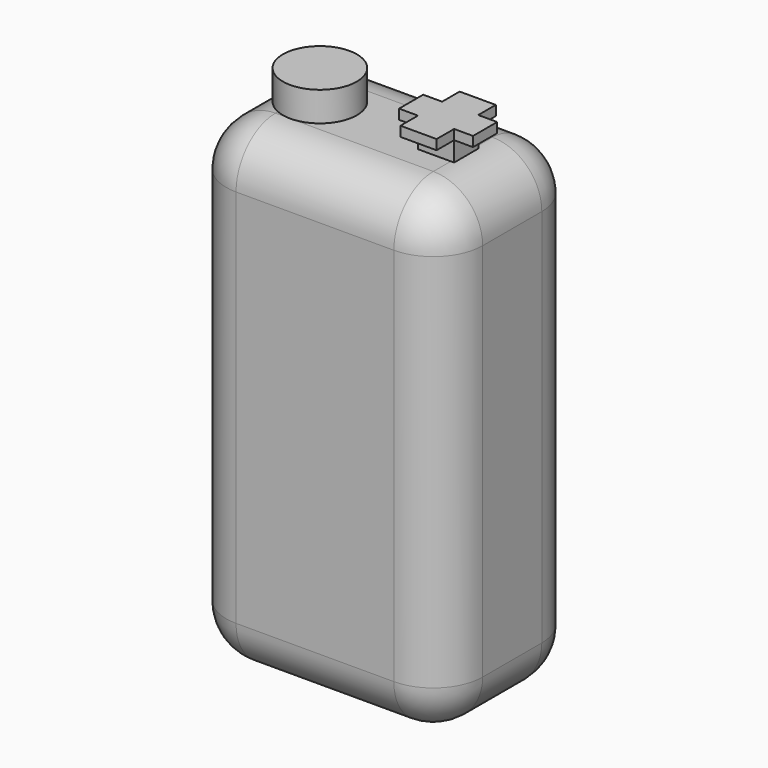
from build123d import *

# Parameters (mm, degrees)
F0_W     = 26
F0_H     = 48.5
F1_DEPTH = 17.5
F2_R     = 3.75
F3_DEPTH = 3
F2_W     = 3.6635138094
F2_H     = 3.0596377328
F4_W     = 3.6635138094
F4_H     = 2.2201811336
F4_W_2   = 1.9182430953
F4_H_2   = 3.0596377328
F5_DEPTH = 1
F6_R     = 5


with BuildPart() as f1:
    # F0 (on Front) → F1 (new body)
    with BuildSketch(Plane.XZ):
        with Locations((-67.0102724425, 5.9249881336)):
            Rectangle(F0_W, F0_H)
    extrude(amount=F1_DEPTH)

    # F6
    f6_edges = [f1.edges().sort_by_distance(p)[0] for p in [
        (-54.010272, -8.75, -18.325012),
        (-54.010272, -8.75, 30.174988),
        (-54.010272, 0, 5.924988),
        (-54.010272, -17.5, 5.924988),
        (-80.010272, -8.75, 30.174988),
        (-67.010272, 0, 30.174988),
        (-67.010272, -17.5, 30.174988),
        (-80.010272, 0, 5.924988),
        (-67.010272, 0, -18.325012),
        (-80.010272, -17.5, 5.924988),
        (-67.010272, -17.5, -18.325012),
        (-80.010272, -8.75, -18.325012),
    ]]
    fillet(f6_edges, radius=F6_R)


with BuildPart() as f3:
    # F2 (on face) → F3 (new body)
    with BuildSketch(Plane.XY.offset(30.1749881336)):
        with Locations((-73.5102724425, -8.75)):
            Circle(F2_R)
    extrude(amount=F3_DEPTH)


with BuildPart() as f3b:
    # F2 (on face) → F3, piece 2 (new body)
    with BuildSketch(Plane.XY.offset(30.1749881336)):
        with Locations((-60.5102724425, -8.75)):
            Rectangle(F2_W, F2_H)
    extrude(amount=F3_DEPTH)

    # F4 (on face) → F5 (join)
    with BuildSketch(Plane.XY.offset(33.1749881336)):
        with Locations((-60.5102724425, -6.1100905668)):
            Rectangle(F4_W, F4_H)
        with Locations((-63.3011508949, -8.75)):
            Rectangle(F4_W_2, F4_H_2)
        with Locations((-60.5102724425, -11.3899094332)):
            Rectangle(F4_W, F4_H)
        with Locations((-57.7193939902, -8.75)):
            Rectangle(F4_W_2, F4_H_2)
    extrude(amount=-F5_DEPTH)


solid = Compound([f1.part, f3.part, f3b.part])
